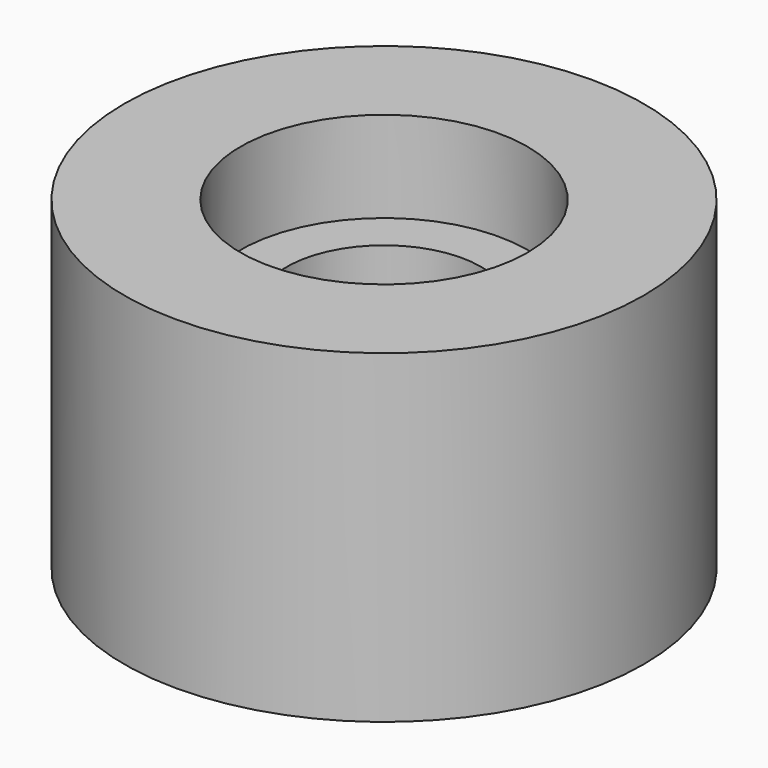
from build123d import *

# Parameters (mm, degrees)
F0_R     = 20
F1_DEPTH = 25
F2_R     = 11.05
F3_DEPTH = 15
F4_R     = 11.05
F4_R_2   = 7.5
F5_DEPTH = 8


with BuildPart() as f1:
    # F0 (on Top) → F1 (new body)
    with BuildSketch(Plane.XY):
        Circle(F0_R)
    extrude(amount=F1_DEPTH)

    # F2 (on face) → F3 (cut)
    with BuildSketch(Plane.XY.offset(25)):
        Circle(F2_R)
    extrude(amount=-F3_DEPTH, mode=Mode.SUBTRACT)

    # F4 (on face) → F5 (join)
    with BuildSketch(Plane.XY.offset(10)):
        Circle(F4_R)
        Circle(F4_R_2, mode=Mode.SUBTRACT)
    extrude(amount=F5_DEPTH)


solid = f1.part
